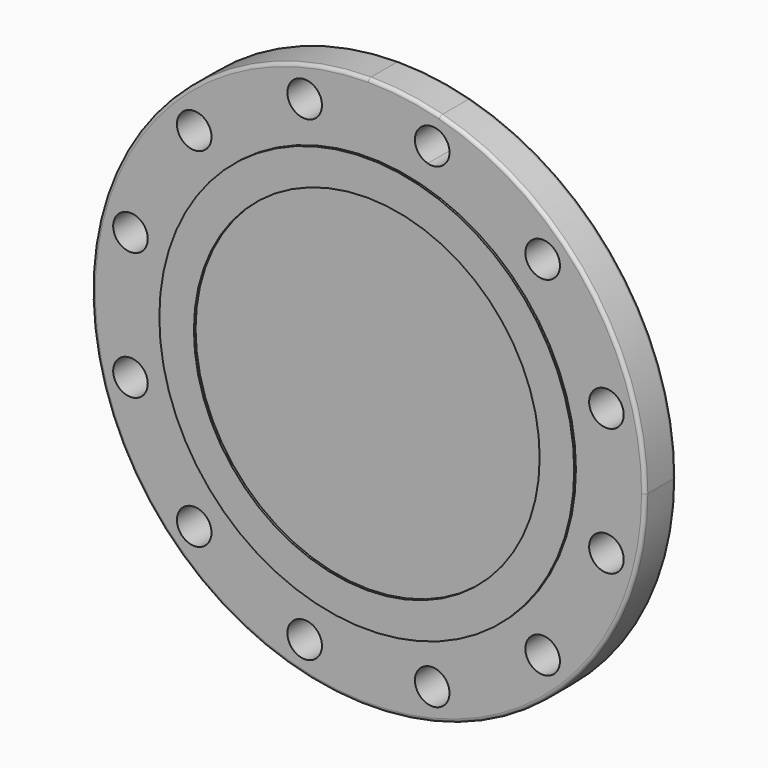
from build123d import *

# Parameters (mm, degrees)
F0_R     = 12.7
F1_DEPTH = 28.448
F2_R     = 2.54
F3_R     = 152.4
F3_R_2   = 127
F4_DEPTH = 1.524


with BuildPart() as f1:
    # F0 (on Front) → F1 (new body)
    with BuildSketch(Plane.XZ):
        with BuildLine():
            ThreePointArc((0, 203.2), (-143.684098, -143.684098), (203.2, 0))
            ThreePointArc((203.2, 0), (161.209399, 123.700322), (52.59203, 196.276128))
            Line((52.59203, 196.276128), (50.126779, 187.075684))
            ThreePointArc((50.126779, 187.075684), (56.915364, 182.539697), (59.539777, 174.808426))
            ThreePointArc((59.539777, 174.808426), (54.571047, 164.732839), (43.552775, 162.541168))
            Line((43.552775, 162.541168), (0, 0))
            Line((0, 0), (0, 203.2))
        make_face()
        with Locations((-127.96865, -127.96865)):
            Circle(F0_R, mode=Mode.SUBTRACT)
        with Locations((-46.839777, -174.808426)):
            Circle(F0_R, mode=Mode.SUBTRACT)
        with Locations((-174.808426, -46.839777)):
            Circle(F0_R, mode=Mode.SUBTRACT)
        with Locations((46.839777, -174.808426)):
            Circle(F0_R, mode=Mode.SUBTRACT)
        with Locations((127.96865, -127.96865)):
            Circle(F0_R, mode=Mode.SUBTRACT)
        with Locations((174.808426, -46.839777)):
            Circle(F0_R, mode=Mode.SUBTRACT)
        with Locations((-174.808426, 46.839777)):
            Circle(F0_R, mode=Mode.SUBTRACT)
        with Locations((-127.96865, 127.96865)):
            Circle(F0_R, mode=Mode.SUBTRACT)
        with Locations((-46.839777, 174.808426)):
            Circle(F0_R, mode=Mode.SUBTRACT)
        with Locations((174.808426, 46.839777)):
            Circle(F0_R, mode=Mode.SUBTRACT)
        with Locations((127.96865, 127.96865)):
            Circle(F0_R, mode=Mode.SUBTRACT)
        with BuildLine():
            Line((50.126779, 187.075684), (52.59203, 196.276128))
            ThreePointArc((52.59203, 196.276128), (26.522922, 201.461596), (0, 203.2))
            Line((0, 203.2), (0, 0))
            Line((0, 0), (43.552775, 162.541168))
            ThreePointArc((43.552775, 162.541168), (34.572519, 178.095428), (50.126779, 187.075684))
        make_face()
    extrude(amount=F1_DEPTH)

    # F2
    f2_edges = [f1.edges().sort_by_distance(p)[0] for p in [
        (-203.2, -28.448, 0),
        (-203.2, 0, 0),
    ]]
    fillet(f2_edges, radius=F2_R)

    # F3 (on face) → F4 (join)
    with BuildSketch(Plane.XZ.offset(28.448)):
        Circle(F3_R)
        Circle(F3_R_2, mode=Mode.SUBTRACT)
    extrude(amount=F4_DEPTH)


solid = f1.part
